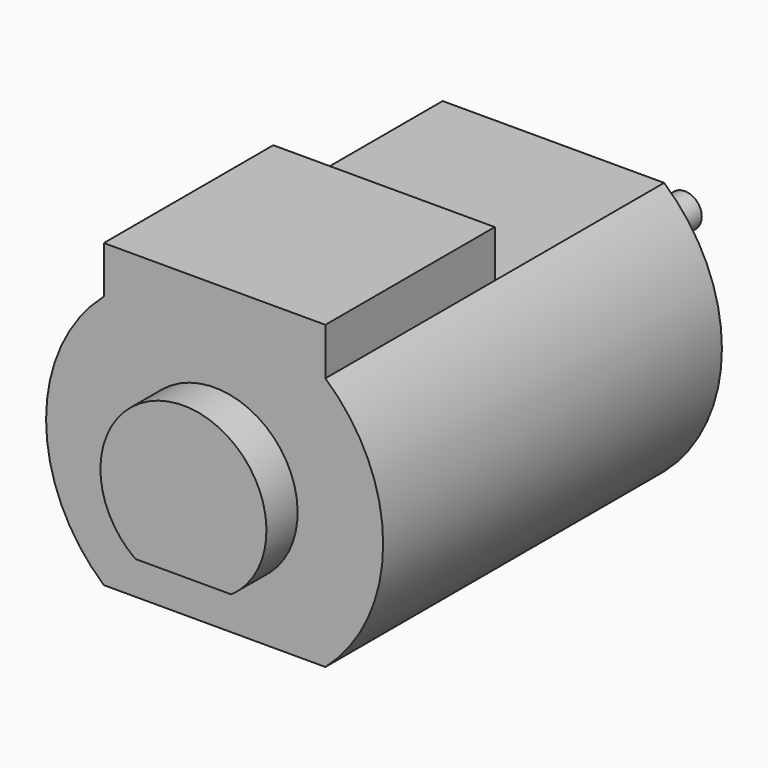
from build123d import *

# Parameters (mm, degrees)
F0_R     = 3.05
F0_R_2   = 1
F1_DEPTH = 12.5
F2_DEPTH = 12.5
F3_DEPTH = 14.8
F4_DEPTH = 14.1
F5_DEPTH = 22.2


with BuildPart() as f1:
    # F0 (on Front) → F1 (new body, symmetric)
    with BuildSketch(Plane.XZ):
        with BuildLine():
            Line((-3.724197, 20.562796), (-16.801276, 20.562796))
            ThreePointArc((-16.801276, 20.562796), (-20.212736, 13.062796), (-16.801276, 5.562796))
            Line((-16.801276, 5.562796), (-3.724197, 5.562796))
            ThreePointArc((-3.724197, 5.562796), (-0.312736, 13.062796), (-3.724197, 20.562796))
        make_face()
        with BuildLine():
            ThreePointArc((-13.092931, 9.062796), (-10.262736, 17.962796), (-7.432542, 9.062796))
            Line((-7.432542, 9.062796), (-13.092931, 9.062796))
        make_face(mode=Mode.SUBTRACT)
        with Locations((-10.262736, 13.062796)):
            Circle(F0_R)
        with Locations((-10.262736, 13.062796)):
            Circle(F0_R_2, mode=Mode.SUBTRACT)
        with BuildLine():
            Line((-13.092931, 9.062796), (-7.432542, 9.062796))
            ThreePointArc((-7.432542, 9.062796), (-10.262736, 17.962796), (-13.092931, 9.062796))
        make_face()
        with Locations((-10.262736, 13.062796)):
            Circle(F0_R, mode=Mode.SUBTRACT)
        with Locations((-10.262736, 13.062796)):
            Circle(F0_R_2)
    extrude(amount=F1_DEPTH, both=True)

    # F0 (on Front) → F2 (join)
    with BuildSketch(Plane.XZ):
        Polygon((-16.801197, 23.346301), (-16.801276, 20.562796), (-3.724197, 20.562796), (-3.724197, 23.346301), align=None)
    extrude(amount=F2_DEPTH)

    # F0 (on Front) → F3 (join)
    with BuildSketch(Plane.XZ):
        with BuildLine():
            Line((-13.092931, 9.062796), (-7.432542, 9.062796))
            ThreePointArc((-7.432542, 9.062796), (-10.262736, 17.962796), (-13.092931, 9.062796))
        make_face()
        with Locations((-10.262736, 13.062796)):
            Circle(F0_R, mode=Mode.SUBTRACT)
        with Locations((-10.262736, 13.062796)):
            Circle(F0_R)
        with Locations((-10.262736, 13.062796)):
            Circle(F0_R_2, mode=Mode.SUBTRACT)
        with Locations((-10.262736, 13.062796)):
            Circle(F0_R_2)
    extrude(amount=F3_DEPTH)

    # F0 (on Front) → F4 (join)
    with BuildSketch(Plane.XZ):
        with Locations((-10.262736, 13.062796)):
            Circle(F0_R)
        with Locations((-10.262736, 13.062796)):
            Circle(F0_R_2, mode=Mode.SUBTRACT)
    extrude(amount=-F4_DEPTH)

    # F0 (on Front) → F5 (join)
    with BuildSketch(Plane.XZ):
        with Locations((-10.262736, 13.062796)):
            Circle(F0_R_2)
    extrude(amount=-F5_DEPTH)


solid = f1.part
